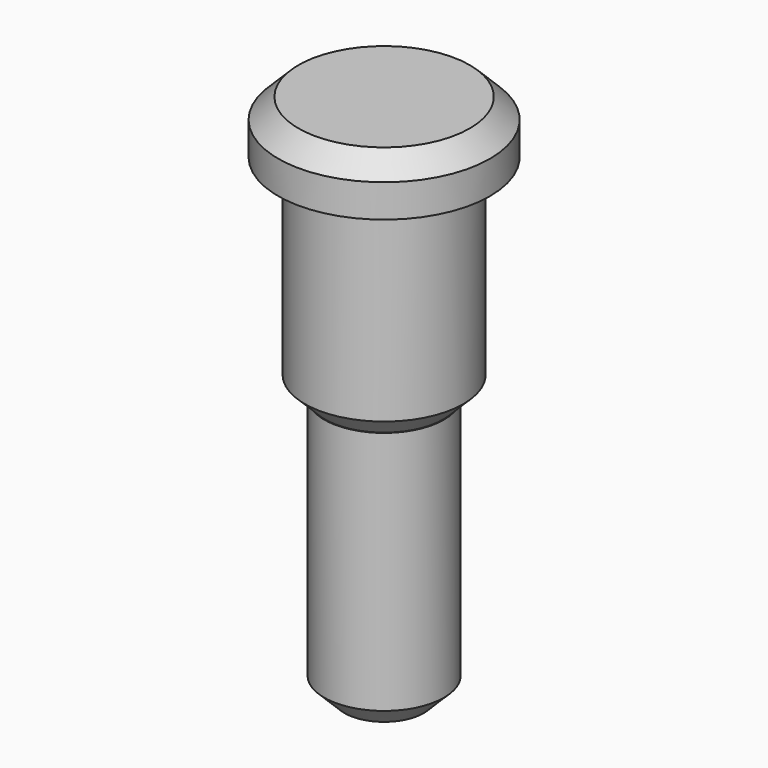
from build123d import *

# Parameters (mm, degrees)
F0_R     = 4.0005
F0_R_2   = 2.9972
F1_DEPTH = 2.0066
F2_SIZE  = 0.762
F3_DEPTH = 8.001
F5_SIZE  = 0.762
F4_R     = 2.261837
F6_DEPTH = 10.0076
F7_SIZE  = 0.762


with BuildPart() as f1:
    # F0 (on Top) → F1 (new body)
    with BuildSketch(Plane.XY):
        Circle(F0_R)
        Circle(F0_R_2, mode=Mode.SUBTRACT)
        Circle(F0_R_2)
    extrude(amount=F1_DEPTH)

    # F2
    f2_edges = [f1.edges().sort_by_distance(p)[0] for p in [
        (-4.0005, 0, 2.0066),
    ]]
    chamfer(f2_edges, length=F2_SIZE)

    # F0 (on Top) → F3 (join)
    with BuildSketch(Plane.XY):
        Circle(F0_R_2)
    extrude(amount=-F3_DEPTH)

    # F5
    f5_edges = [f1.edges().sort_by_distance(p)[0] for p in [
        (-2.9972, 0, -8.001),
    ]]
    chamfer(f5_edges, length=F5_SIZE)

    # F4 (on face) → F6 (join)
    with BuildSketch(Plane(origin=(0, 0, -8.001), x_dir=(1, 0, 0), z_dir=(0, 0, -1))):
        Circle(F4_R)
    extrude(amount=F6_DEPTH)

    # F7
    f7_edges = [f1.edges().sort_by_distance(p)[0] for p in [
        (-2.261837, 0, -18.0086),
    ]]
    chamfer(f7_edges, length=F7_SIZE)


solid = f1.part
